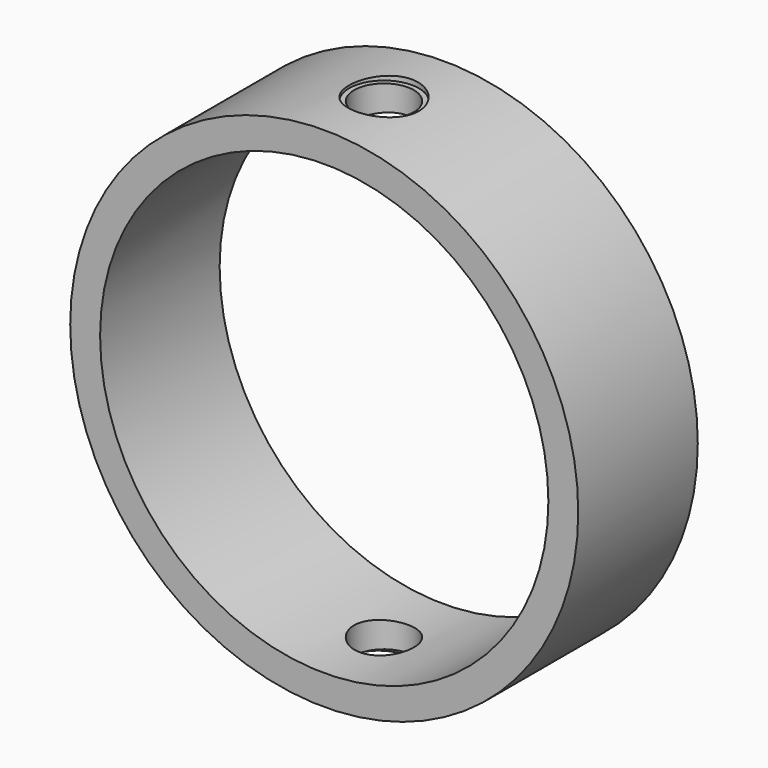
from build123d import *

# Parameters (mm, degrees)
F0_R     = 32.385
F0_R_2   = 28.575
F1_DEPTH = 19.05
F2_R     = 3.81
F3_DEPTH = 38.1
F6_R     = 4.445
F6_R_2   = 3.81
F7_DEPTH = 25.4
F8_R     = 4.445
F8_R_2   = 3.81
F9_DEPTH = 25.4


with BuildPart() as f1:
    # F0 (on Front) → F1 (new body)
    with BuildSketch(Plane.XZ):
        Circle(F0_R)
        Circle(F0_R_2, mode=Mode.SUBTRACT)
    extrude(amount=F1_DEPTH)

    # F2 (on Top) → F3 (cut, symmetric)
    with BuildSketch(Plane.XY):
        with Locations((0, -9.525)):
            Circle(F2_R)
    extrude(amount=F3_DEPTH, both=True, mode=Mode.SUBTRACT)

    # F6 (on offset) → F7 (cut)
    with BuildSketch(Plane.XY.offset(31.75)):
        with Locations((0, -9.525)):
            Circle(F6_R)
        with Locations((0, -9.525)):
            Circle(F6_R_2, mode=Mode.SUBTRACT)
    extrude(amount=F7_DEPTH, mode=Mode.SUBTRACT)

    # F8 (on offset) → F9 (cut)
    with BuildSketch(Plane.XY.offset(-31.75)):
        with Locations((0, -9.525)):
            Circle(F8_R)
        with Locations((0, -9.525)):
            Circle(F8_R_2, mode=Mode.SUBTRACT)
    extrude(amount=-F9_DEPTH, mode=Mode.SUBTRACT)


solid = f1.part
